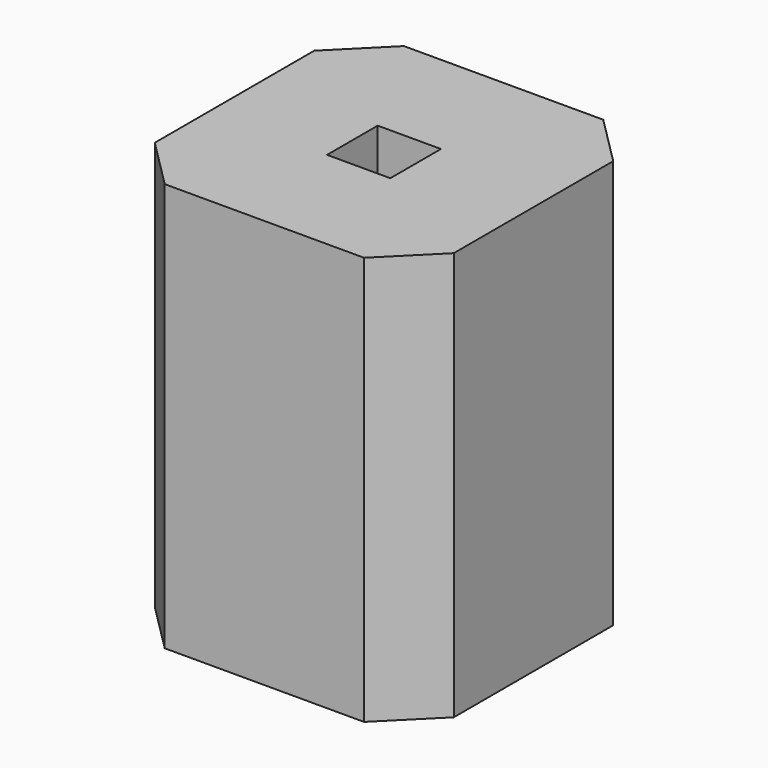
from build123d import *

# Parameters (mm, degrees)
F0_W     = 60
F0_H     = 60
F1_DEPTH = 82
F2_SIZE  = 10
F3_W     = 12.7
F3_H     = 12.7
F4_DEPTH = 12.7
F5_W     = 12.7
F5_H     = 12.7
F6_DEPTH = 12.7


with BuildPart() as f1:
    # F0 (on Top) → F1 (new body)
    with BuildSketch(Plane.XY):
        Rectangle(F0_W, F0_H)
    extrude(amount=F1_DEPTH)

    # F2
    f2_edges = [f1.edges().sort_by_distance(p)[0] for p in [
        (30, -30, 41),
        (30, 30, 41),
        (-30, -30, 41),
        (-30, 30, 41),
    ]]
    chamfer(f2_edges, length=F2_SIZE)

    # F3 (on face) → F4 (cut)
    with BuildSketch(Plane.XY.offset(82)):
        Rectangle(F3_W, F3_H)
    extrude(amount=-F4_DEPTH, mode=Mode.SUBTRACT)

    # F5 (on face) → F6 (join)
    with BuildSketch(Plane(origin=(0, 0, 0), x_dir=(1, 0, 0), z_dir=(0, 0, -1))):
        Rectangle(F5_W, F5_H)
    extrude(amount=F6_DEPTH)


solid = f1.part
